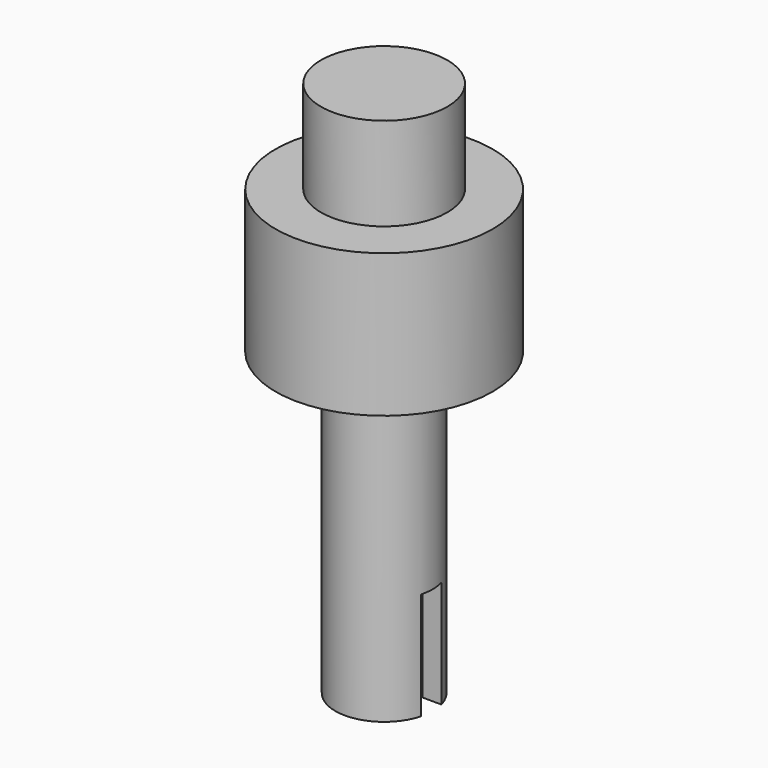
from build123d import *

# Parameters (mm, degrees)
SKETCH_R        = 15.159247
PAD_DEPTH       = 20
SKETCH001_R     = 8.82727
PAD001_DEPTH    = 13
SKETCH002_R     = 12.499133
POCKET_DEPTH    = 18
SKETCH003_R     = 6.812024
PAD002_DEPTH    = 60
POCKET001_DEPTH = 15


with BuildPart() as part:
    # Sketch → Pad (new body)
    with BuildSketch(Plane.XY):
        Circle(SKETCH_R)
    extrude(amount=PAD_DEPTH)

    # Sketch001 (on Face3 of Pad) → Pad001 (join)
    with BuildSketch(Plane.XY.offset(20)):
        Circle(SKETCH001_R)
    extrude(amount=PAD001_DEPTH)

    # Sketch002 (on Face2 of Pad001) → Pocket (cut)
    with BuildSketch(Plane(origin=(0, 0, 0), x_dir=(1, 0, 0), z_dir=(0, 0, -1))):
        Circle(SKETCH002_R)
    extrude(amount=-POCKET_DEPTH, mode=Mode.SUBTRACT)

    # Sketch003 (on Face6 of Pocket) → Pad002 (join)
    with BuildSketch(Plane(origin=(0, 0, 18), x_dir=(1, 0, 0), z_dir=(0, 0, -1))):
        Circle(SKETCH003_R)
    extrude(amount=PAD002_DEPTH)

    # Sketch004 (on Face9 of Pad002) → Pocket001 (cut)
    with BuildSketch(Plane(origin=(0, 0, -42), x_dir=(1, 0, 0), z_dir=(0, 0, -1))):
        with BuildLine():
            ThreePointArc((-3.949093, -1.795721), (0, -4.338197), (3.949093, -1.795721))
            Line((9.103818, -1.795721), (3.949093, -1.795721))
            Line((9.103818, 1.795721), (9.103818, -1.795721))
            Line((3.949093, 1.795721), (9.103818, 1.795721))
            ThreePointArc((3.949093, 1.795721), (0, 4.338197), (-3.949093, 1.795721))
            Line((-9.103818, 1.795721), (-3.949093, 1.795721))
            Line((-9.103818, -1.795721), (-9.103818, 1.795721))
            Line((-3.949093, -1.795721), (-9.103818, -1.795721))
        make_face()
    extrude(amount=-POCKET001_DEPTH, mode=Mode.SUBTRACT)


solid = part.part
